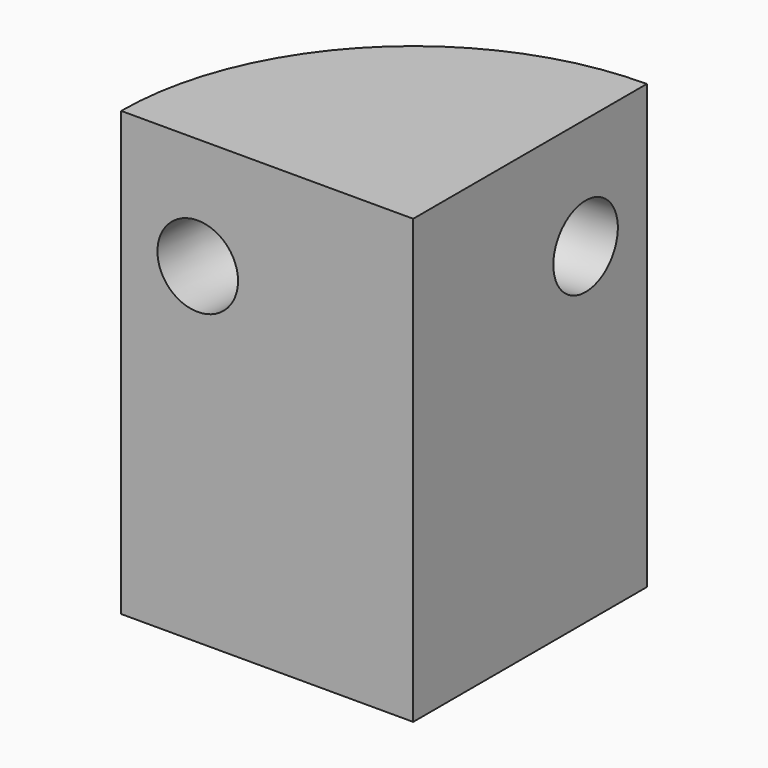
from build123d import *

# Parameters (mm, degrees)
F0_W     = 94.339364
F0_H     = 143.09682
F0_R     = 13.020651
F1_ANGLE = 90


with BuildPart() as f1:
    # F0 (on Front) → F1 (revolve)
    with BuildSketch(Plane.XZ):
        Rectangle(F0_W, F0_H)
        with Locations((-22.439945, 35.425305)):
            Circle(F0_R, mode=Mode.SUBTRACT)
    revolve(axis=Axis((47.169682, 0, 0), (0, 0, -1)), revolution_arc=F1_ANGLE)


solid = f1.part
